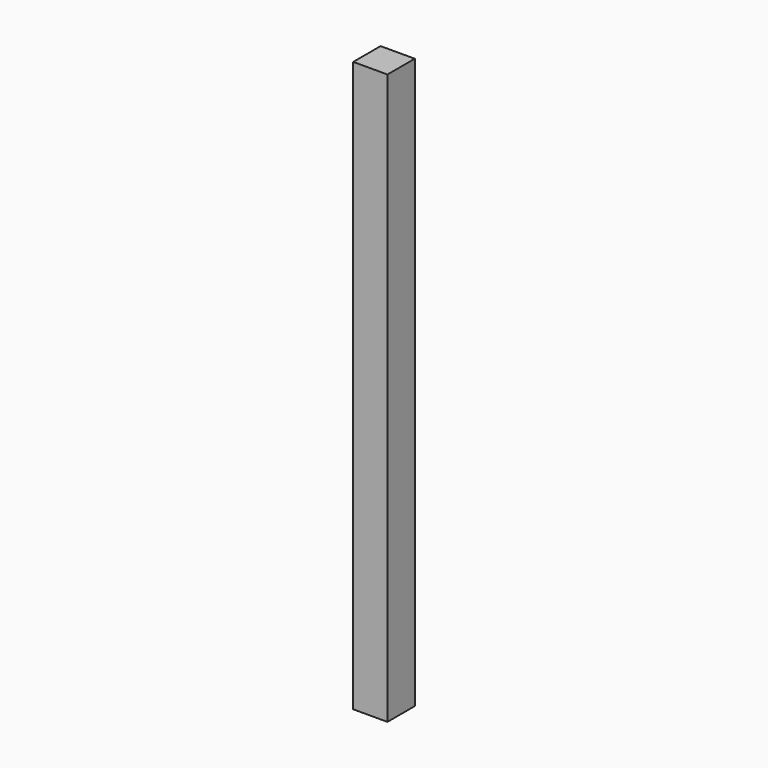
from build123d import *

# Parameters (mm, degrees)
F3_W     = 60
F3_H     = 60
F4_DEPTH = 1000
F6_D     = 5
F6_DEPTH = 12
F6_TIP   = 1.5021515476


with BuildPart() as f4:
    # F3 (on Top) → F4 (new body)
    with BuildSketch(Plane.XY):
        with Locations((30, 30)):
            Rectangle(F3_W, F3_H)
    extrude(amount=F4_DEPTH)

    # F6
    with Locations(Plane(origin=(0, 0, 0), x_dir=(1, 0, 0), z_dir=(0, 0, -1))):
        with Locations((30, -30)):
            Hole(F6_D / 2, depth=F6_DEPTH)
            with Locations((0, 0, -(F6_DEPTH + F6_TIP / 2))):  # 118° drill point
                Cone(0, F6_D / 2, F6_TIP, mode=Mode.SUBTRACT)


solid = f4.part
